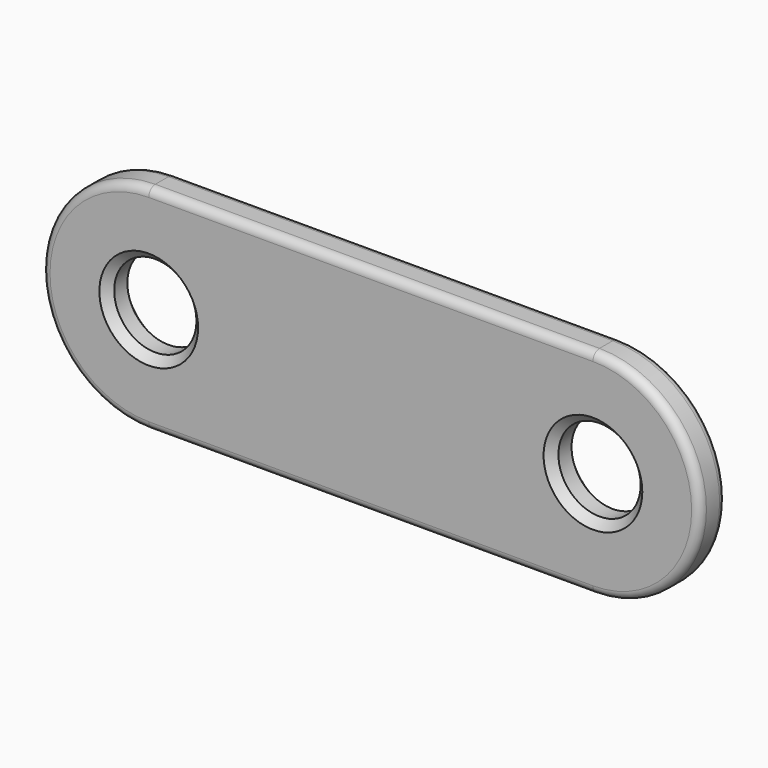
from build123d import *

# Parameters (mm, degrees)
F0_R     = 2.5
F1_DEPTH = 2
F2_R     = 0.5
F3_SIZE  = 0.5


with BuildPart() as f1:
    # F0 (on Front) → F1 (new body)
    with BuildSketch(Plane.XZ):
        with BuildLine():
            Line((10.5747856316, 13.0727361555), (-16.4252143684, 13.0727361555))
            ThreePointArc((-16.4252143684, 13.0727361555), (-22.9252143684, 6.5727361555), (-16.4252143684, 0.0727361555))
            Line((-16.4252143684, 0.0727361555), (10.5747856316, 0.0727361555))
            ThreePointArc((10.5747856316, 0.0727361555), (17.0747856316, 6.5727361555), (10.5747856316, 13.0727361555))
        make_face()
        with Locations((10.5747856316, 6.5727361555)):
            Circle(F0_R, mode=Mode.SUBTRACT)
        with Locations((-16.4252143684, 6.5727361555)):
            Circle(F0_R, mode=Mode.SUBTRACT)
    extrude(amount=F1_DEPTH)

    # F2
    f2_edges = [f1.edges().sort_by_distance(p)[0] for p in [
        (-22.925214, -2, 6.572736),
        (-2.925214, 0, 0.072736),
    ]]
    fillet(f2_edges, radius=F2_R)

    # F3
    f3_edges = [f1.edges().sort_by_distance(p)[0] for p in [
        (-18.925214, -2, 6.572736),
        (8.074786, 0, 6.572736),
        (8.074786, -2, 6.572736),
        (-2.925214, -0.5, 13.072736),
        (-18.925214, 0, 6.572736),
    ]]
    chamfer(f3_edges, length=F3_SIZE)


solid = f1.part
